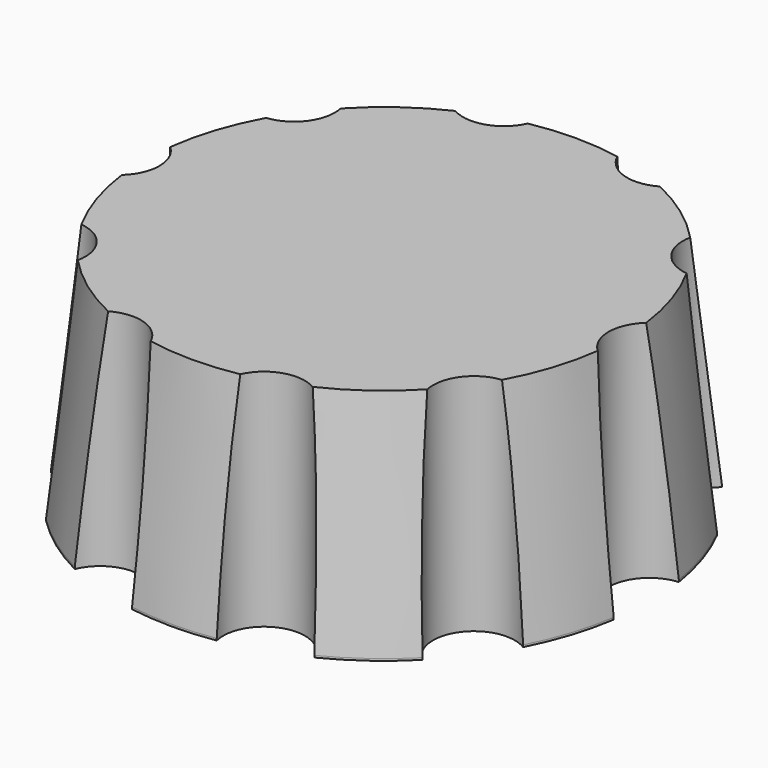
from build123d import *

# Parameters (mm, degrees)
F0_R      = 13
F0_R_2    = 11.75
F0_R_3    = 3.15
F3_DEPTH  = 0.1
F3_FACE_R = 13
F2_R      = 11.75
F5_DEPTH  = 9.5
F6_R      = 2
F7_DEPTH  = 25
F8_DEPTH  = 11.0010001
F9_R      = 9.5
F10_DEPTH = 9.5
F11_DEPTH = 2.75


with BuildPart() as f3:
    # F0 (on Top) → F3 (new body)
    with BuildSketch(Plane.XY):
        Circle(F0_R)
        Circle(F0_R_2, mode=Mode.SUBTRACT)
        Circle(F0_R_2)
        Circle(F0_R_3, mode=Mode.SUBTRACT)
        Circle(F0_R_3)
    extrude(amount=F3_DEPTH)

    # F3_face (on face) → F4 section 0
    with BuildSketch(Plane.XY.offset(0.1)):
        Circle(F3_FACE_R)
    # F2 (on offset) → F4 section 1
    with BuildSketch(Plane.XY.offset(11)):
        Circle(F2_R)
    loft()

    # F0 (on Top) → F5 (cut)
    with BuildSketch(Plane.XY):
        Circle(F0_R_3)
    extrude(amount=F5_DEPTH, mode=Mode.SUBTRACT)

    # F6 (on face) → F7 (cut)
    with BuildSketch(Plane.XY.offset(11)):
        with Locations((13, 0)):
            Circle(F6_R)
        with Locations((10.5172209269, 7.6412082798)):
            Circle(F6_R)
        with Locations((4.0172209269, 12.3637347118)):
            Circle(F6_R)
        with Locations((-4.0172209269, 12.3637347118)):
            Circle(F6_R)
        with Locations((-10.5172209269, 7.6412082798)):
            Circle(F6_R)
        with Locations((-13, 0)):
            Circle(F6_R)
        with Locations((-10.5172209269, -7.6412082798)):
            Circle(F6_R)
        with Locations((-4.0172209269, -12.3637347118)):
            Circle(F6_R)
        with Locations((4.0172209269, -12.3637347118)):
            Circle(F6_R)
        with Locations((10.5172209269, -7.6412082798)):
            Circle(F6_R)
    extrude(amount=-F7_DEPTH, mode=Mode.SUBTRACT)

    # F6 (on face) → F8 (cut, through all)
    with BuildSketch(Plane.XY.offset(11)):
        with Locations((13, 0)):
            Circle(F6_R)
        with Locations((10.5172209269, 7.6412082798)):
            Circle(F6_R)
        with Locations((4.0172209269, 12.3637347118)):
            Circle(F6_R)
        with Locations((-4.0172209269, 12.3637347118)):
            Circle(F6_R)
        with Locations((-10.5172209269, 7.6412082798)):
            Circle(F6_R)
        with Locations((-13, 0)):
            Circle(F6_R)
        with Locations((-10.5172209269, -7.6412082798)):
            Circle(F6_R)
        with Locations((-4.0172209269, -12.3637347118)):
            Circle(F6_R)
        with Locations((4.0172209269, -12.3637347118)):
            Circle(F6_R)
        with Locations((10.5172209269, -7.6412082798)):
            Circle(F6_R)
    extrude(amount=-F8_DEPTH, mode=Mode.SUBTRACT)

    # F9 (on face) → F10 (cut)
    with BuildSketch(Plane(origin=(0, 0, 0), x_dir=(1, 0, 0), z_dir=(0, 0, -1))):
        Circle(F9_R)
        with BuildLine():
            ThreePointArc((0.75, 4.4370598373), (4.5, 0), (0.75, -4.4370598373))
            Line((0.75, -4.4370598373), (0.75, -3.0594117082))
            ThreePointArc((0.75, -3.0594117082), (0, -3.15), (-0.75, -3.0594117082))
            Line((-0.75, -3.0594117082), (-0.75, -4.4370598373))
            ThreePointArc((-0.75, -4.4370598373), (-4.5, 0), (-0.75, 4.4370598373))
            Line((-0.75, 4.4370598373), (-0.75, 3.0594117082))
            ThreePointArc((-0.75, 3.0594117082), (0, 3.15), (0.75, 3.0594117082))
            Line((0.75, 3.0594117082), (0.75, 4.4370598373))
        make_face(mode=Mode.SUBTRACT)
    extrude(amount=-F10_DEPTH, mode=Mode.SUBTRACT)

    # F11 (cut): faces of the model
    f11_faces = [f3.faces().sort_by_distance(p)[0] for p in [
        (-3.2463392443, 0, 0),
        (0.8463392443, 3.7482357727, 0),
    ]]
    extrude(f11_faces, amount=-F11_DEPTH, mode=Mode.SUBTRACT)


solid = f3.part
